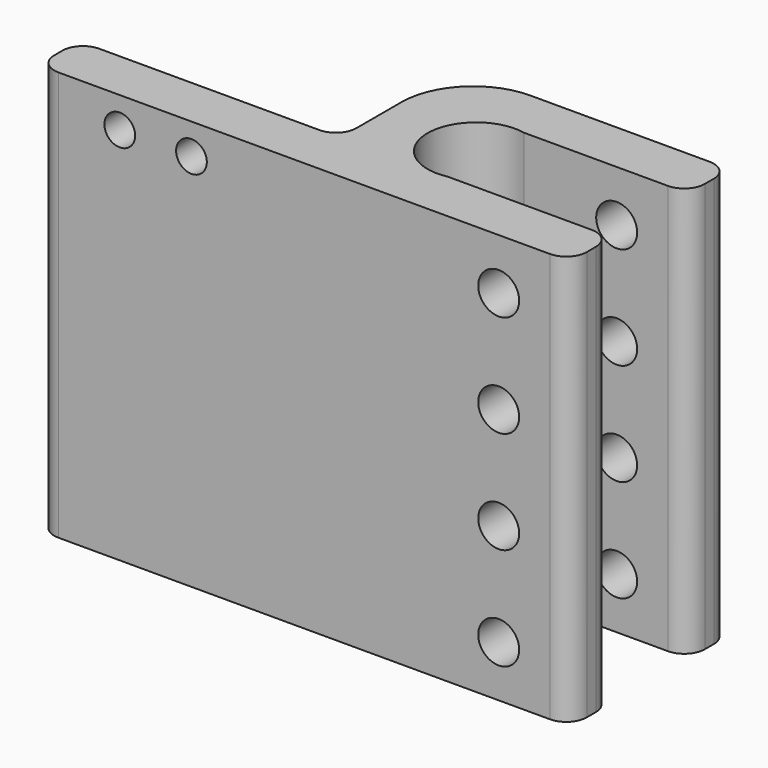
from build123d import *

# Parameters (mm, degrees)
F0_W     = 25.5
F0_H     = 5
F1_DEPTH = 40
F2_R     = 2
F2_R_2   = 1.5
F3_DEPTH = 20
F4_R     = 2
F5_R     = 7


with BuildPart() as f1:
    # F0 (on Top) → F1 (new body)
    with BuildSketch(Plane.XY):
        with BuildLine():
            ThreePointArc((0.969536, -4.65), (-4.75, 0), (0.969536, 4.65))
            Line((0.969536, 4.65), (17, 4.65))
            Line((17, 4.65), (17, 9.75))
            Line((17, 9.75), (-9.5, 9.75))
            Line((-9.5, 9.75), (-9.5, -4.75))
            Line((-9.5, -4.75), (-9.5, -9.75))
            Line((-9.5, -9.75), (17, -9.75))
            Line((17, -9.75), (17, -4.65))
            Line((17, -4.65), (0.969536, -4.65))
        make_face()
        with Locations((-22.25, -7.25)):
            Rectangle(F0_W, F0_H)
    extrude(amount=F1_DEPTH)

    # F2 (on Front) → F3 (cut, symmetric)
    with BuildSketch(Plane.XZ):
        with Locations((10, 35)):
            Circle(F2_R)
        with Locations((10, 25)):
            Circle(F2_R)
        with Locations((10, 15)):
            Circle(F2_R)
        with Locations((10, 5)):
            Circle(F2_R)
        with Locations((-27, 37)):
            Circle(F2_R_2)
        with Locations((-20, 37)):
            Circle(F2_R_2)
    extrude(amount=F3_DEPTH, both=True, mode=Mode.SUBTRACT)

    # F4
    f4_edges = [f1.edges().sort_by_distance(p)[0] for p in [
        (-35, -9.75, 20),
        (-35, -4.75, 20),
        (17, -9.75, 20),
        (-9.5, -4.75, 20),
        (17, -4.65, 20),
        (17, 4.65, 20),
        (17, 9.75, 20),
    ]]
    fillet(f4_edges, radius=F4_R)

    # F5
    f5_edges = [f1.edges().sort_by_distance(p)[0] for p in [
        (-9.5, 9.75, 20),
    ]]
    fillet(f5_edges, radius=F5_R)


solid = f1.part
